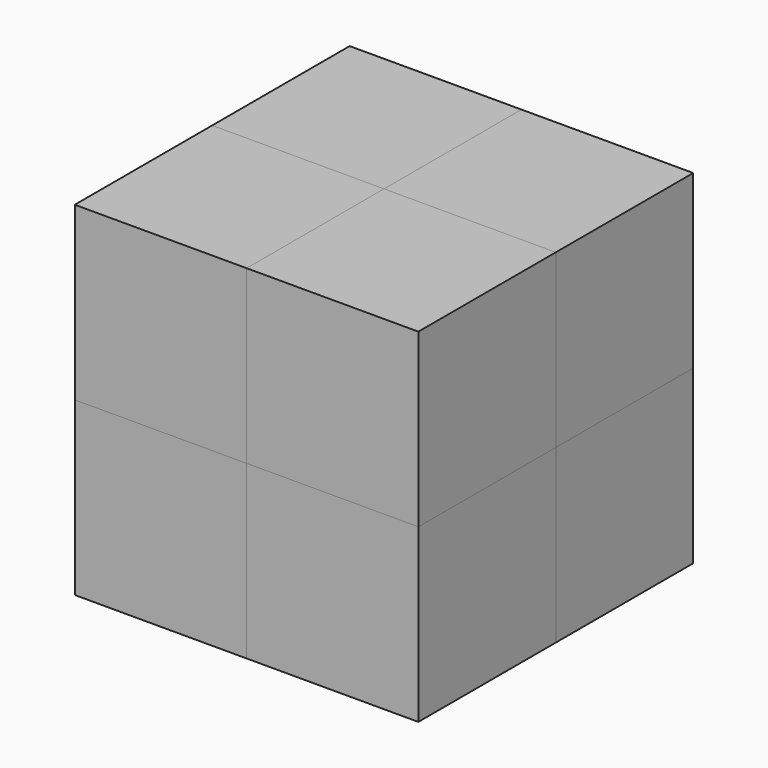
from build123d import *

# Parameters (mm, degrees)
F0_W      = 20
F0_H      = 20
F1_DEPTH  = 20
F2_W      = 20
F2_H      = 20
F3_DEPTH  = 20
F4_W      = 20
F4_H      = 20
F5_DEPTH  = 20
F3_FACE_W = 20
F3_FACE_H = 20
F6_DEPTH  = 20


with BuildPart() as f1:
    # F0 (on Top) → F1 (new body)
    with BuildSketch(Plane.XY):
        with Locations((-10, 10)):
            Rectangle(F0_W, F0_H)
        with Locations((10, -10)):
            Rectangle(F0_W, F0_H)
    extrude(amount=F1_DEPTH)


with BuildPart() as f3:
    # F2 (on Top) → F3 (new body)
    with BuildSketch(Plane.XY):
        with Locations((10, 10)):
            Rectangle(F2_W, F2_H)
        with Locations((-10, -10)):
            Rectangle(F2_W, F2_H)
    extrude(amount=F3_DEPTH)


with BuildPart() as f5:
    # F4 (on face) → F5 (new body)
    with BuildSketch(Plane.XY.offset(20)):
        with Locations((-10, 10)):
            Rectangle(F4_W, F4_H)
        with Locations((10, -10)):
            Rectangle(F4_W, F4_H)
    extrude(amount=F5_DEPTH)


with BuildPart() as f6:
    # F3_face (on face) → F6 (new body)
    with BuildSketch(Plane(origin=(-10, -10, 20), x_dir=(1, 0, 0), z_dir=(0, 0, 1))):
        Rectangle(F3_FACE_W, F3_FACE_H)
        with Locations((20, 20)):
            Rectangle(F3_FACE_W, F3_FACE_H)
    extrude(amount=F6_DEPTH)


solid = Compound([f1.part, f3.part, f5.part, f6.part])
